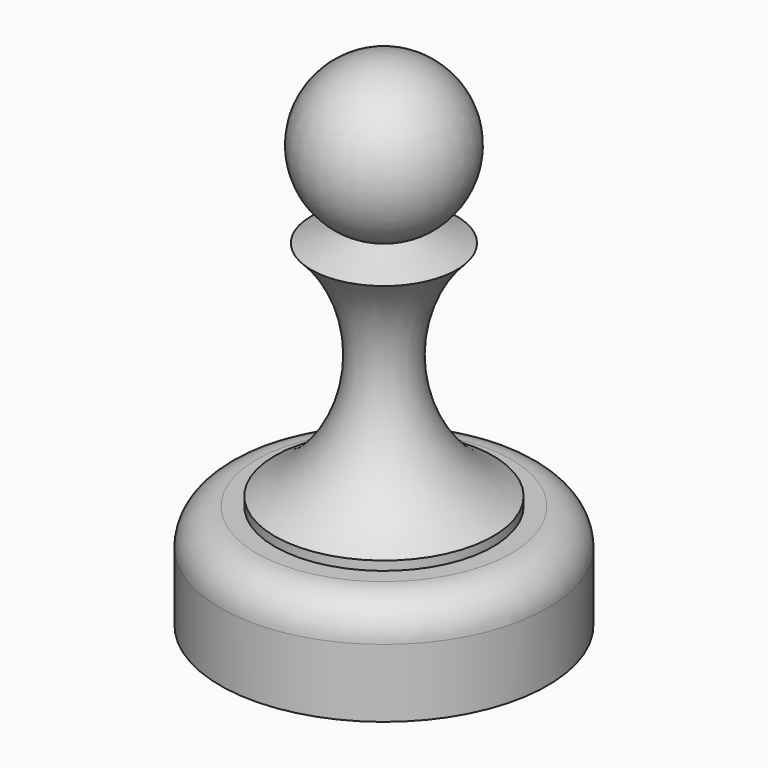
from build123d import *


with BuildPart() as f1:
    # F0 (on Front) → F1 (revolve)
    with BuildSketch(Plane.XZ):
        with BuildLine():
            Line((-18, 0), (0, 0))
            Line((0, 0), (0, 55))
            ThreePointArc((0, 55), (-8.308199, 48.295501), (-3.509972, 38.758547))
            Line((-3.509972, 38.758547), (-8, 37))
            ThreePointArc((-8, 37), (-3.698306, 23.721152), (-12, 12.5))
            Line((-12, 12.5), (-12, 11.5))
            Line((-12, 11.5), (-14, 11.5))
            ThreePointArc((-14, 11.5), (-16.828427, 10.328427), (-18, 7.5))
            Line((-18, 7.5), (-18, 0))
        make_face()
    revolve(axis=Axis((0, 0, 27.5), (0, 0, -1)))


solid = f1.part
